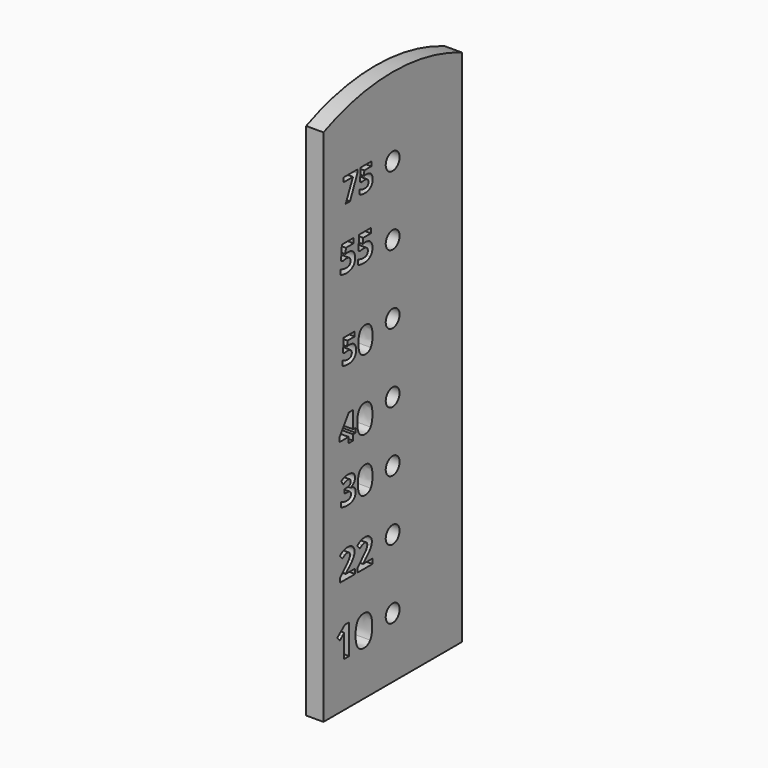
from build123d import *

# Parameters (mm, degrees)
F0_R     = 12.7
F1_DEPTH = 25.4


with BuildPart() as f1:
    # F0 (on Right) → F1 (new body)
    with BuildSketch(Plane.YZ):
        with BuildLine():
            Line((-63.9527306103, -528.3341474914), (-63.9527306103, 233.6658525086))
            ThreePointArc((-63.9527306103, 233.6658525086), (-190.95273061, 260.085778301), (-317.9527306097, 233.6658525089))
            Line((-317.9527306097, 233.6658525089), (-317.9527306097, -528.3341474914))
            Line((-317.9527306103, -528.3341474914), (-63.9527306103, -528.3341474914))
        make_face()
        with BuildLine():
            Line((-270.8871777027, -418.6918881411), (-270.8871777027, -462.4520242214))
            Line((-270.8871777027, -462.4520242214), (-280.139156572, -462.4520242214))
            Line((-280.139156572, -462.4520242214), (-280.139156572, -437.1288025545))
            Line((-280.139156572, -437.1288025545), (-280.0433803932, -432.9721163958))
            Line((-280.0433803932, -432.9721163958), (-279.899716125, -428.4227479042))
            add(Edge.make_bspline(
                [(-279.899716125, -428.4227479042), (-282.1983444155, -430.7213761947), (-283.098640496, -431.4396975355)],
                knots=[0, 0, 0, 1, 1, 1], degree=2))
            Line((-283.098640496, -431.4396975355), (-288.1268898814, -435.4814522796))
            Line((-288.1268898814, -435.4814522796), (-292.5900598121, -429.916856293))
            Line((-292.5900598121, -429.916856293), (-278.4918062971, -418.6918881411))
            Line((-278.4918062971, -418.6918881411), (-270.8871777027, -418.6918881411))
        make_face(mode=Mode.SUBTRACT)
        with BuildLine():
            Line((-259.8650928703, -353.7320835943), (-259.8650928703, -360.810816288))
            Line((-259.8650928703, -360.810816288), (-287.6750218048, -360.810816288))
            Line((-287.6750218048, -360.810816288), (-287.6750218048, -354.9597604821))
            Line((-287.6750218048, -354.9597604821), (-277.6881750647, -344.8684306026))
            add(Edge.make_bspline(
                [(-277.6881750647, -344.8684306026), (-273.2476416406, -340.3234140391), (-271.8893608285, -338.5689679902)],
                knots=[0, 0, 0, 1, 1, 1], degree=2))
            add(Edge.make_bspline(
                [(-271.8893608285, -338.5689679902), (-270.5310800165, -336.8145219413), (-269.930301965, -335.3169302767)],
                knots=[0, 0, 0, 1, 1, 1], degree=2))
            add(Edge.make_bspline(
                [(-269.930301965, -335.3169302767), (-269.3295239135, -333.8193386121), (-269.3295239135, -332.2172638081)],
                knots=[0, 0, 0, 1, 1, 1], degree=2))
            add(Edge.make_bspline(
                [(-269.3295239135, -332.2172638081), (-269.3295239135, -329.8228585304), (-270.6529770124, -328.6517766764)],
                knots=[0, 0, 0, 1, 1, 1], degree=2))
            add(Edge.make_bspline(
                [(-270.6529770124, -328.6517766764), (-271.9764301114, -327.4806948223), (-274.1792829668, -327.4806948223)],
                knots=[0, 0, 0, 1, 1, 1], degree=2))
            add(Edge.make_bspline(
                [(-274.1792829668, -327.4806948223), (-276.4866189617, -327.4806948223), (-278.6633510324, -328.5429400728)],
                knots=[0, 0, 0, 1, 1, 1], degree=2))
            add(Edge.make_bspline(
                [(-278.6633510324, -328.5429400728), (-280.840083103, -329.6051853233), (-283.2083675959, -331.5642441869)],
                knots=[0, 0, 0, 1, 1, 1], degree=2))
            Line((-283.2083675959, -331.5642441869), (-287.7795049442, -326.1485347951))
            add(Edge.make_bspline(
                [(-287.7795049442, -326.1485347951), (-284.845270113, -323.6409394497), (-282.9123320343, -322.6091684483)],
                knots=[0, 0, 0, 1, 1, 1], degree=2))
            add(Edge.make_bspline(
                [(-282.9123320343, -322.6091684483), (-280.9793939555, -321.5773974468), (-278.6938252814, -321.0201540367)],
                knots=[0, 0, 0, 1, 1, 1], degree=2))
            add(Edge.make_bspline(
                [(-278.6938252814, -321.0201540367), (-276.4082566072, -320.4629106266), (-273.5785049153, -320.4629106266)],
                knots=[0, 0, 0, 1, 1, 1], degree=2))
            add(Edge.make_bspline(
                [(-273.5785049153, -320.4629106266), (-269.8519396104, -320.4629106266), (-266.9960671337, -321.8211914387)],
                knots=[0, 0, 0, 1, 1, 1], degree=2))
            add(Edge.make_bspline(
                [(-266.9960671337, -321.8211914387), (-264.1401946571, -323.1794722508), (-262.5598871738, -325.6304725623)],
                knots=[0, 0, 0, 1, 1, 1], degree=2))
            add(Edge.make_bspline(
                [(-262.5598871738, -325.6304725623), (-260.9795796905, -328.0814728738), (-260.9795796905, -331.2333809121)],
                knots=[0, 0, 0, 1, 1, 1], degree=2))
            add(Edge.make_bspline(
                [(-260.9795796905, -331.2333809121), (-260.9795796905, -333.9847702494), (-261.9460487298, -336.3922359195)],
                knots=[0, 0, 0, 1, 1, 1], degree=2))
            add(Edge.make_bspline(
                [(-261.9460487298, -336.3922359195), (-262.9125177692, -338.7997015897), (-264.941232059, -341.3290642558)],
                knots=[0, 0, 0, 1, 1, 1], degree=2))
            add(Edge.make_bspline(
                [(-264.941232059, -341.3290642558), (-266.9699463489, -343.8584269218), (-272.0809132507, -348.5427543379)],
                knots=[0, 0, 0, 1, 1, 1], degree=2))
            Line((-272.0809132507, -348.5427543379), (-277.2005870809, -353.3576856781))
            Line((-277.2005870809, -353.3576856781), (-277.2005870809, -353.7320835943))
            Line((-277.2005870809, -353.7320835943), (-259.8650928703, -353.7320835943))
        make_face(mode=Mode.SUBTRACT)
        with BuildLine():
            add(Edge.make_bspline(
                [(-232.2941664671, -423.7488703802), (-228.4200200358, -429.4954411065), (-228.4200200358, -440.5767449902)],
                knots=[0, 0, 0, 1, 1, 1], degree=2))
            add(Edge.make_bspline(
                [(-228.4200200358, -440.5767449902), (-228.4200200358, -452.0315759712), (-232.1744462436, -457.5434950594)],
                knots=[0, 0, 0, 1, 1, 1], degree=2))
            add(Edge.make_bspline(
                [(-232.1744462436, -457.5434950594), (-235.9288724514, -463.0554141477), (-243.7442086391, -463.0554141477)],
                knots=[0, 0, 0, 1, 1, 1], degree=2))
            add(Edge.make_bspline(
                [(-243.7442086391, -463.0554141477), (-251.3201043799, -463.0554141477), (-255.1655179575, -457.3663091287)],
                knots=[0, 0, 0, 1, 1, 1], degree=2))
            add(Edge.make_bspline(
                [(-255.1655179575, -457.3663091287), (-259.0109315352, -451.6772041097), (-259.0109315352, -440.5767449902)],
                knots=[0, 0, 0, 1, 1, 1], degree=2))
            add(Edge.make_bspline(
                [(-259.0109315352, -440.5767449902), (-259.0109315352, -428.987827359), (-255.2660829452, -423.4950635065)],
                knots=[0, 0, 0, 1, 1, 1], degree=2))
            add(Edge.make_bspline(
                [(-255.2660829452, -423.4950635065), (-251.5212343553, -418.002299654), (-243.7442086391, -418.002299654)],
                knots=[0, 0, 0, 1, 1, 1], degree=2))
            add(Edge.make_bspline(
                [(-243.7442086391, -418.002299654), (-236.1683128984, -418.002299654), (-232.2941664671, -423.7488703802)],
                knots=[0, 0, 0, 1, 1, 1], degree=2))
        make_face(mode=Mode.SUBTRACT)
        with Locations((-190.9527306103, -439.4341474914)):
            Circle(F0_R, mode=Mode.SUBTRACT)
        with BuildLine():
            Line((-228.0586838541, -353.7320835943), (-228.0586838541, -360.810816288))
            Line((-228.0586838541, -360.810816288), (-255.8686127886, -360.810816288))
            Line((-255.8686127886, -360.810816288), (-255.8686127886, -354.9597604821))
            Line((-255.8686127886, -354.9597604821), (-245.8817660485, -344.8684306026))
            add(Edge.make_bspline(
                [(-245.8817660485, -344.8684306026), (-241.4412326244, -340.3234140391), (-240.0829518123, -338.5689679902)],
                knots=[0, 0, 0, 1, 1, 1], degree=2))
            add(Edge.make_bspline(
                [(-240.0829518123, -338.5689679902), (-238.7246710003, -336.8145219413), (-238.1238929488, -335.3169302767)],
                knots=[0, 0, 0, 1, 1, 1], degree=2))
            add(Edge.make_bspline(
                [(-238.1238929488, -335.3169302767), (-237.5231148973, -333.8193386121), (-237.5231148973, -332.2172638081)],
                knots=[0, 0, 0, 1, 1, 1], degree=2))
            add(Edge.make_bspline(
                [(-237.5231148973, -332.2172638081), (-237.5231148973, -329.8228585304), (-238.8465679962, -328.6517766764)],
                knots=[0, 0, 0, 1, 1, 1], degree=2))
            add(Edge.make_bspline(
                [(-238.8465679962, -328.6517766764), (-240.1700210952, -327.4806948223), (-242.3728739506, -327.4806948223)],
                knots=[0, 0, 0, 1, 1, 1], degree=2))
            add(Edge.make_bspline(
                [(-242.3728739506, -327.4806948223), (-244.6802099455, -327.4806948223), (-246.8569420162, -328.5429400728)],
                knots=[0, 0, 0, 1, 1, 1], degree=2))
            add(Edge.make_bspline(
                [(-246.8569420162, -328.5429400728), (-249.0336740868, -329.6051853233), (-251.4019585797, -331.5642441869)],
                knots=[0, 0, 0, 1, 1, 1], degree=2))
            Line((-251.4019585797, -331.5642441869), (-255.973095928, -326.1485347951))
            add(Edge.make_bspline(
                [(-255.973095928, -326.1485347951), (-253.0388610968, -323.6409394497), (-251.1059230181, -322.6091684483)],
                knots=[0, 0, 0, 1, 1, 1], degree=2))
            add(Edge.make_bspline(
                [(-251.1059230181, -322.6091684483), (-249.1729849393, -321.5773974468), (-246.8874162652, -321.0201540367)],
                knots=[0, 0, 0, 1, 1, 1], degree=2))
            add(Edge.make_bspline(
                [(-246.8874162652, -321.0201540367), (-244.601847591, -320.4629106266), (-241.7720958991, -320.4629106266)],
                knots=[0, 0, 0, 1, 1, 1], degree=2))
            add(Edge.make_bspline(
                [(-241.7720958991, -320.4629106266), (-238.0455305942, -320.4629106266), (-235.1896581175, -321.8211914387)],
                knots=[0, 0, 0, 1, 1, 1], degree=2))
            add(Edge.make_bspline(
                [(-235.1896581175, -321.8211914387), (-232.3337856409, -323.1794722508), (-230.7534781576, -325.6304725623)],
                knots=[0, 0, 0, 1, 1, 1], degree=2))
            add(Edge.make_bspline(
                [(-230.7534781576, -325.6304725623), (-229.1731706743, -328.0814728738), (-229.1731706743, -331.2333809121)],
                knots=[0, 0, 0, 1, 1, 1], degree=2))
            add(Edge.make_bspline(
                [(-229.1731706743, -331.2333809121), (-229.1731706743, -333.9847702494), (-230.1396397136, -336.3922359195)],
                knots=[0, 0, 0, 1, 1, 1], degree=2))
            add(Edge.make_bspline(
                [(-230.1396397136, -336.3922359195), (-231.106108753, -338.7997015897), (-233.1348230428, -341.3290642558)],
                knots=[0, 0, 0, 1, 1, 1], degree=2))
            add(Edge.make_bspline(
                [(-233.1348230428, -341.3290642558), (-235.1635373327, -343.8584269218), (-240.2745042345, -348.5427543379)],
                knots=[0, 0, 0, 1, 1, 1], degree=2))
            Line((-240.2745042345, -348.5427543379), (-245.3941780647, -353.3576856781))
            Line((-245.3941780647, -353.3576856781), (-245.3941780647, -353.7320835943))
            Line((-245.3941780647, -353.7320835943), (-228.0586838541, -353.7320835943))
        make_face(mode=Mode.SUBTRACT)
        with Locations((-190.9527306103, -337.8341474914)):
            Circle(F0_R, mode=Mode.SUBTRACT)
        with BuildLine():
            add(Edge.make_bspline(
                [(-263.4314556878, -229.27335457), (-259.9721926381, -231.6931553651), (-259.9721926381, -236.0025049549)],
                knots=[0, 0, 0, 1, 1, 1], degree=2))
            add(Edge.make_bspline(
                [(-259.9721926381, -236.0025049549), (-259.9721926381, -239.6048518777), (-262.1563258775, -242.129861403)],
                knots=[0, 0, 0, 1, 1, 1], degree=2))
            add(Edge.make_bspline(
                [(-262.1563258775, -242.129861403), (-264.3404591169, -244.6548709284), (-268.2878906748, -245.6059578496)],
                knots=[0, 0, 0, 1, 1, 1], degree=2))
            Line((-268.2878906748, -245.6059578496), (-268.2878906748, -245.7574584211))
            add(Edge.make_bspline(
                [(-268.2878906748, -245.7574584211), (-263.6250397514, -246.3382106119), (-261.2346974007, -248.5896774387)],
                knots=[0, 0, 0, 1, 1, 1], degree=2))
            add(Edge.make_bspline(
                [(-261.2346974007, -248.5896774387), (-258.8443550501, -250.8411442654), (-258.8443550501, -254.6539086486)],
                knots=[0, 0, 0, 1, 1, 1], degree=2))
            add(Edge.make_bspline(
                [(-258.8443550501, -254.6539086486), (-258.8443550501, -260.2005129059), (-262.8675368938, -263.2936495744)],
                knots=[0, 0, 0, 1, 1, 1], degree=2))
            add(Edge.make_bspline(
                [(-262.8675368938, -263.2936495744), (-266.8907187375, -266.3867862429), (-274.356330234, -266.3867862429)],
                knots=[0, 0, 0, 1, 1, 1], degree=2))
            add(Edge.make_bspline(
                [(-274.356330234, -266.3867862429), (-280.6183538568, -266.3867862429), (-285.457955447, -264.3078617338)],
                knots=[0, 0, 0, 1, 1, 1], degree=2))
            Line((-285.457955447, -264.3078617338), (-285.457955447, -257.3893356344))
            add(Edge.make_bspline(
                [(-285.457955447, -257.3893356344), (-283.2275303663, -258.5171732224), (-280.542603571, -259.2283842387)],
                knots=[0, 0, 0, 1, 1, 1], degree=2))
            add(Edge.make_bspline(
                [(-280.542603571, -259.2283842387), (-277.8576767758, -259.939595255), (-275.2316668694, -259.939595255)],
                knots=[0, 0, 0, 1, 1, 1], degree=2))
            add(Edge.make_bspline(
                [(-275.2316668694, -259.939595255), (-271.2000683273, -259.939595255), (-269.2810610881, -258.5718817621)],
                knots=[0, 0, 0, 1, 1, 1], degree=2))
            add(Edge.make_bspline(
                [(-269.2810610881, -258.5718817621), (-267.3620538489, -257.2041682692), (-267.3620538489, -254.1741568388)],
                knots=[0, 0, 0, 1, 1, 1], degree=2))
            add(Edge.make_bspline(
                [(-267.3620538489, -254.1741568388), (-267.3620538489, -251.4723966467), (-269.5714371835, -250.3403507095)],
                knots=[0, 0, 0, 1, 1, 1], degree=2))
            add(Edge.make_bspline(
                [(-269.5714371835, -250.3403507095), (-271.7808205182, -249.2083047724), (-276.6204221084, -249.2083047724)],
                knots=[0, 0, 0, 1, 1, 1], degree=2))
            Line((-276.6204221084, -249.2083047724), (-279.5410164593, -249.2083047724))
            Line((-279.5410164593, -249.2083047724), (-279.5410164593, -242.9715312448))
            Line((-279.5410164593, -242.9715312448), (-276.5699219179, -242.9715312448))
            add(Edge.make_bspline(
                [(-276.5699219179, -242.9715312448), (-272.100655058, -242.9715312448), (-270.0343555965, -241.8016101648)],
                knots=[0, 0, 0, 1, 1, 1], degree=2))
            add(Edge.make_bspline(
                [(-270.0343555965, -241.8016101648), (-267.9680561349, -240.6316890847), (-267.9680561349, -237.7952617179)],
                knots=[0, 0, 0, 1, 1, 1], degree=2))
            add(Edge.make_bspline(
                [(-267.9680561349, -237.7952617179), (-267.9680561349, -233.4269952391), (-273.4389101065, -233.4269952391)],
                knots=[0, 0, 0, 1, 1, 1], degree=2))
            add(Edge.make_bspline(
                [(-273.4389101065, -233.4269952391), (-275.3326672504, -233.4269952391), (-277.2937579818, -234.0582476204)],
                knots=[0, 0, 0, 1, 1, 1], degree=2))
            add(Edge.make_bspline(
                [(-277.2937579818, -234.0582476204), (-279.2548487131, -234.6895000018), (-281.6451910637, -236.2381725106)],
                knots=[0, 0, 0, 1, 1, 1], degree=2))
            Line((-281.6451910637, -236.2381725106), (-285.4074552565, -230.6410680628))
            add(Edge.make_bspline(
                [(-285.4074552565, -230.6410680628), (-280.1470187454, -226.8535537749), (-272.8581579156, -226.8535537749)],
                knots=[0, 0, 0, 1, 1, 1], degree=2))
            add(Edge.make_bspline(
                [(-272.8581579156, -226.8535537749), (-266.8907187375, -226.8535537749), (-263.4314556878, -229.27335457)],
                knots=[0, 0, 0, 1, 1, 1], degree=2))
        make_face(mode=Mode.SUBTRACT)
        Polygon((-258.7506187912, -172.1751996245), (-258.7506187912, -178.7053982617), (-263.5394311251, -178.7053982617), (-263.5394311251, -186.9508624077), (-271.7587744765, -186.9508624077), (-271.7587744765, -178.7053982617), (-288.7372909334, -178.7053982617), (-288.7372909334, -172.8543402828), (-271.2886001747, -147.1688923096), (-263.5394311251, -147.1688923096), (-263.5394311251, -172.1751996245), align=None, mode=Mode.SUBTRACT)
        with BuildLine():
            add(Edge.make_bspline(
                [(-231.3427929702, -231.8446559366), (-227.9382384602, -236.8946749872), (-227.9382384602, -246.6327950565)],
                knots=[0, 0, 0, 1, 1, 1], degree=2))
            add(Edge.make_bspline(
                [(-227.9382384602, -246.6327950565), (-227.9382384602, -256.6991663641), (-231.23758424, -261.5429763035)],
                knots=[0, 0, 0, 1, 1, 1], degree=2))
            add(Edge.make_bspline(
                [(-231.23758424, -261.5429763035), (-234.5369300197, -266.3867862429), (-241.4049559286, -266.3867862429)],
                knots=[0, 0, 0, 1, 1, 1], degree=2))
            add(Edge.make_bspline(
                [(-241.4049559286, -266.3867862429), (-248.062564377, -266.3867862429), (-251.4418687917, -261.3872673828)],
                knots=[0, 0, 0, 1, 1, 1], degree=2))
            add(Edge.make_bspline(
                [(-251.4418687917, -261.3872673828), (-254.8211732064, -256.3877485227), (-254.8211732064, -246.6327950565)],
                knots=[0, 0, 0, 1, 1, 1], degree=2))
            add(Edge.make_bspline(
                [(-254.8211732064, -246.6327950565), (-254.8211732064, -236.4485899711), (-251.5302441251, -231.6216134285)],
                knots=[0, 0, 0, 1, 1, 1], degree=2))
            add(Edge.make_bspline(
                [(-251.5302441251, -231.6216134285), (-248.2393150438, -226.7946368859), (-241.4049559286, -226.7946368859)],
                knots=[0, 0, 0, 1, 1, 1], degree=2))
            add(Edge.make_bspline(
                [(-241.4049559286, -226.7946368859), (-234.7473474802, -226.7946368859), (-231.3427929702, -231.8446559366)],
                knots=[0, 0, 0, 1, 1, 1], degree=2))
        make_face(mode=Mode.SUBTRACT)
        with Locations((-190.9527306103, -248.9341474914)):
            Circle(F0_R, mode=Mode.SUBTRACT)
        with BuildLine():
            add(Edge.make_bspline(
                [(-231.5806389945, -151.7661521502), (-228.0586851961, -156.99031106), (-228.0586851961, -167.0642308244)],
                knots=[0, 0, 0, 1, 1, 1], degree=2))
            add(Edge.make_bspline(
                [(-228.0586851961, -167.0642308244), (-228.0586851961, -177.4777209179), (-231.4718023505, -182.4885600056)],
                knots=[0, 0, 0, 1, 1, 1], degree=2))
            add(Edge.make_bspline(
                [(-231.4718023505, -182.4885600056), (-234.8849195049, -187.4993990932), (-241.9897756222, -187.4993990932)],
                knots=[0, 0, 0, 1, 1, 1], degree=2))
            add(Edge.make_bspline(
                [(-241.9897756222, -187.4993990932), (-248.8769584516, -187.4993990932), (-252.3727914555, -182.3274817725)],
                knots=[0, 0, 0, 1, 1, 1], degree=2))
            add(Edge.make_bspline(
                [(-252.3727914555, -182.3274817725), (-255.8686244593, -177.1555644518), (-255.8686244593, -167.0642308244)],
                knots=[0, 0, 0, 1, 1, 1], degree=2))
            add(Edge.make_bspline(
                [(-255.8686244593, -167.0642308244), (-255.8686244593, -156.5288436897), (-252.4642142364, -151.535418465)],
                knots=[0, 0, 0, 1, 1, 1], degree=2))
            add(Edge.make_bspline(
                [(-252.4642142364, -151.535418465), (-249.0598040135, -146.5419932404), (-241.9897756222, -146.5419932404)],
                knots=[0, 0, 0, 1, 1, 1], degree=2))
            add(Edge.make_bspline(
                [(-241.9897756222, -146.5419932404), (-235.1025927928, -146.5419932404), (-231.5806389945, -151.7661521502)],
                knots=[0, 0, 0, 1, 1, 1], degree=2))
        make_face(mode=Mode.SUBTRACT)
        with Locations((-190.9527306103, -160.0341474914)):
            Circle(F0_R, mode=Mode.SUBTRACT)
        with BuildLine():
            add(Edge.make_bspline(
                [(-273.6156425922, -60.6086655906), (-272.063487253, -60.2511010099), (-269.7799498168, -60.2511010099)],
                knots=[0, 0, 0, 1, 1, 1], degree=2))
            add(Edge.make_bspline(
                [(-269.7799498168, -60.2511010099), (-264.40022817, -60.2511010099), (-261.2105895803, -63.2741470108)],
                knots=[0, 0, 0, 1, 1, 1], degree=2))
            add(Edge.make_bspline(
                [(-261.2105895803, -63.2741470108), (-258.0209509906, -66.2971930118), (-258.0209509906, -71.5550176424)],
                knots=[0, 0, 0, 1, 1, 1], degree=2))
            add(Edge.make_bspline(
                [(-258.0209509906, -71.5550176424), (-258.0209509906, -77.7717654669), (-261.856643766, -81.1279966454)],
                knots=[0, 0, 0, 1, 1, 1], degree=2))
            add(Edge.make_bspline(
                [(-261.856643766, -81.1279966454), (-265.6923365414, -84.4842278239), (-272.827375221, -84.4842278239)],
                knots=[0, 0, 0, 1, 1, 1], degree=2))
            add(Edge.make_bspline(
                [(-272.827375221, -84.4842278239), (-279.02787011, -84.4842278239), (-282.8310570144, -82.476990291)],
                knots=[0, 0, 0, 1, 1, 1], degree=2))
            Line((-282.8310570144, -82.476990291), (-282.8310570144, -75.6913897243))
            add(Edge.make_bspline(
                [(-282.8310570144, -75.6913897243), (-280.8319459493, -76.7559569989), (-278.1624012953, -77.4304538217)],
                knots=[0, 0, 0, 1, 1, 1], degree=2))
            add(Edge.make_bspline(
                [(-278.1624012953, -77.4304538217), (-275.4928566412, -78.1049506445), (-273.1118015921, -78.1049506445)],
                knots=[0, 0, 0, 1, 1, 1], degree=2))
            add(Edge.make_bspline(
                [(-273.1118015921, -78.1049506445), (-265.9198776382, -78.1049506445), (-265.9198776382, -72.2132615297)],
                knots=[0, 0, 0, 1, 1, 1], degree=2))
            add(Edge.make_bspline(
                [(-265.9198776382, -72.2132615297), (-265.9198776382, -66.5978723183), (-273.3637220921, -66.5978723183)],
                knots=[0, 0, 0, 1, 1, 1], degree=2))
            add(Edge.make_bspline(
                [(-273.3637220921, -66.5978723183), (-274.70458927, -66.5978723183), (-276.3298828189, -66.8660457539)],
                knots=[0, 0, 0, 1, 1, 1], degree=2))
            add(Edge.make_bspline(
                [(-276.3298828189, -66.8660457539), (-277.9551763678, -67.1342191894), (-278.9709848358, -67.4430249637)],
                knots=[0, 0, 0, 1, 1, 1], degree=2))
            Line((-278.9709848358, -67.4430249637), (-282.0996749174, -65.7608461406))
            Line((-282.0996749174, -65.7608461406), (-280.7019224654, -46.8424292315))
            Line((-280.7019224654, -46.8424292315), (-260.5645353946, -46.8424292315))
            Line((-260.5645353946, -46.8424292315), (-260.5645353946, -53.4980063142))
            Line((-260.5645353946, -53.4980063142), (-273.8188042858, -53.4980063142))
            Line((-273.8188042858, -53.4980063142), (-274.5014275764, -60.787447881))
            Line((-274.5014275764, -60.787447881), (-273.6156425922, -60.6086655906))
        make_face(mode=Mode.SUBTRACT)
        with BuildLine():
            add(Edge.make_bspline(
                [(-276.5736979248, 60.0873679165), (-274.910674314, 60.4704728321), (-272.4640270123, 60.4704728321)],
                knots=[0, 0, 0, 1, 1, 1], degree=2))
            add(Edge.make_bspline(
                [(-272.4640270123, 60.4704728321), (-266.7000394188, 60.4704728321), (-263.2825694333, 57.2314949095)],
                knots=[0, 0, 0, 1, 1, 1], degree=2))
            add(Edge.make_bspline(
                [(-263.2825694333, 57.2314949095), (-259.8650994478, 53.9925169869), (-259.8650994478, 48.359133342)],
                knots=[0, 0, 0, 1, 1, 1], degree=2))
            add(Edge.make_bspline(
                [(-259.8650994478, 48.359133342), (-259.8650994478, 41.6983319689), (-263.9747703603, 38.1023699204)],
                knots=[0, 0, 0, 1, 1, 1], degree=2))
            add(Edge.make_bspline(
                [(-263.9747703603, 38.1023699204), (-268.0844412729, 34.506407872), (-275.7291257246, 34.506407872)],
                knots=[0, 0, 0, 1, 1, 1], degree=2))
            add(Edge.make_bspline(
                [(-275.7291257246, 34.506407872), (-282.3725132378, 34.506407872), (-286.4473564308, 36.6570195571)],
                knots=[0, 0, 0, 1, 1, 1], degree=2))
            Line((-286.4473564308, 36.6570195571), (-286.4473564308, 43.9273060232))
            add(Edge.make_bspline(
                [(-286.4473564308, 43.9273060232), (-284.3054516755, 42.7866982063), (-281.4452252035, 42.0640230247)],
                knots=[0, 0, 0, 1, 1, 1], degree=2))
            add(Edge.make_bspline(
                [(-281.4452252035, 42.0640230247), (-278.5849987316, 41.341347843), (-276.033868271, 41.341347843)],
                knots=[0, 0, 0, 1, 1, 1], degree=2))
            add(Edge.make_bspline(
                [(-276.033868271, 41.341347843), (-268.32823531, 41.341347843), (-268.32823531, 47.6538720201)],
                knots=[0, 0, 0, 1, 1, 1], degree=2))
            add(Edge.make_bspline(
                [(-268.32823531, 47.6538720201), (-268.32823531, 53.6703605806), (-276.3037830979, 53.6703605806)],
                knots=[0, 0, 0, 1, 1, 1], degree=2))
            add(Edge.make_bspline(
                [(-276.3037830979, 53.6703605806), (-277.7404265313, 53.6703605806), (-279.4818125112, 53.3830318939)],
                knots=[0, 0, 0, 1, 1, 1], degree=2))
            add(Edge.make_bspline(
                [(-279.4818125112, 53.3830318939), (-281.2231984911, 53.0957032073), (-282.3115647285, 52.7648398711)],
                knots=[0, 0, 0, 1, 1, 1], degree=2))
            Line((-282.3115647285, 52.7648398711), (-285.6637327398, 54.5671743603))
            Line((-285.6637327398, 54.5671743603), (-284.1661407971, 74.8369071662))
            Line((-284.1661407971, 74.8369071662), (-262.5903685063, 74.8369071662))
            Line((-262.5903685063, 74.8369071662), (-262.5903685063, 67.7059315785))
            Line((-262.5903685063, 67.7059315785), (-276.7913711723, 67.7059315785))
            Line((-276.7913711723, 67.7059315785), (-277.5227532838, 59.8958154587))
            Line((-277.5227532838, 59.8958154587), (-276.5736979248, 60.0873679165))
        make_face(mode=Mode.SUBTRACT)
        with BuildLine():
            add(Edge.make_bspline(
                [(-231.1426589258, -51.1332042006), (-227.8555027232, -56.0090848473), (-227.8555027232, -65.4114080276)],
                knots=[0, 0, 0, 1, 1, 1], degree=2))
            add(Edge.make_bspline(
                [(-227.8555027232, -65.4114080276), (-227.8555027232, -75.13066345), (-231.041078079, -79.8074456369)],
                knots=[0, 0, 0, 1, 1, 1], degree=2))
            add(Edge.make_bspline(
                [(-231.041078079, -79.8074456369), (-234.2266534348, -84.4842278239), (-240.8578511143, -84.4842278239)],
                knots=[0, 0, 0, 1, 1, 1], degree=2))
            add(Edge.make_bspline(
                [(-240.8578511143, -84.4842278239), (-247.2858871002, -84.4842278239), (-250.5486638996, -79.6571059836)],
                knots=[0, 0, 0, 1, 1, 1], degree=2))
            add(Edge.make_bspline(
                [(-250.5486638996, -79.6571059836), (-253.811440699, -74.8299841434), (-253.811440699, -65.4114080276)],
                knots=[0, 0, 0, 1, 1, 1], degree=2))
            add(Edge.make_bspline(
                [(-253.811440699, -65.4114080276), (-253.811440699, -55.5783820568), (-250.6339918109, -50.9178528054)],
                knots=[0, 0, 0, 1, 1, 1], degree=2))
            add(Edge.make_bspline(
                [(-250.6339918109, -50.9178528054), (-247.4565429228, -46.2573235539), (-240.8578511143, -46.2573235539)],
                knots=[0, 0, 0, 1, 1, 1], degree=2))
            add(Edge.make_bspline(
                [(-240.8578511143, -46.2573235539), (-234.4298151285, -46.2573235539), (-231.1426589258, -51.1332042006)],
                knots=[0, 0, 0, 1, 1, 1], degree=2))
        make_face(mode=Mode.SUBTRACT)
        with Locations((-190.9527306103, -58.4341474914)):
            Circle(F0_R, mode=Mode.SUBTRACT)
        with BuildLine():
            add(Edge.make_bspline(
                [(-244.7672830021, 60.0873679165), (-243.1042593914, 60.4704728321), (-240.6576120896, 60.4704728321)],
                knots=[0, 0, 0, 1, 1, 1], degree=2))
            add(Edge.make_bspline(
                [(-240.6576120896, 60.4704728321), (-234.8936244962, 60.4704728321), (-231.4761545106, 57.2314949095)],
                knots=[0, 0, 0, 1, 1, 1], degree=2))
            add(Edge.make_bspline(
                [(-231.4761545106, 57.2314949095), (-228.0586845251, 53.9925169869), (-228.0586845251, 48.359133342)],
                knots=[0, 0, 0, 1, 1, 1], degree=2))
            add(Edge.make_bspline(
                [(-228.0586845251, 48.359133342), (-228.0586845251, 41.6983319689), (-232.1683554377, 38.1023699204)],
                knots=[0, 0, 0, 1, 1, 1], degree=2))
            add(Edge.make_bspline(
                [(-232.1683554377, 38.1023699204), (-236.2780263502, 34.506407872), (-243.9227108019, 34.506407872)],
                knots=[0, 0, 0, 1, 1, 1], degree=2))
            add(Edge.make_bspline(
                [(-243.9227108019, 34.506407872), (-250.5660983152, 34.506407872), (-254.6409415081, 36.6570195571)],
                knots=[0, 0, 0, 1, 1, 1], degree=2))
            Line((-254.6409415081, 36.6570195571), (-254.6409415081, 43.9273060232))
            add(Edge.make_bspline(
                [(-254.6409415081, 43.9273060232), (-252.4990367529, 42.7866982063), (-249.6388102809, 42.0640230247)],
                knots=[0, 0, 0, 1, 1, 1], degree=2))
            add(Edge.make_bspline(
                [(-249.6388102809, 42.0640230247), (-246.7785838089, 41.341347843), (-244.2274533484, 41.341347843)],
                knots=[0, 0, 0, 1, 1, 1], degree=2))
            add(Edge.make_bspline(
                [(-244.2274533484, 41.341347843), (-236.5218203874, 41.341347843), (-236.5218203874, 47.6538720201)],
                knots=[0, 0, 0, 1, 1, 1], degree=2))
            add(Edge.make_bspline(
                [(-236.5218203874, 47.6538720201), (-236.5218203874, 53.6703605806), (-244.4973681753, 53.6703605806)],
                knots=[0, 0, 0, 1, 1, 1], degree=2))
            add(Edge.make_bspline(
                [(-244.4973681753, 53.6703605806), (-245.9340116087, 53.6703605806), (-247.6753975886, 53.3830318939)],
                knots=[0, 0, 0, 1, 1, 1], degree=2))
            add(Edge.make_bspline(
                [(-247.6753975886, 53.3830318939), (-249.4167835684, 53.0957032073), (-250.5051498059, 52.7648398711)],
                knots=[0, 0, 0, 1, 1, 1], degree=2))
            Line((-250.5051498059, 52.7648398711), (-253.8573178172, 54.5671743603))
            Line((-253.8573178172, 54.5671743603), (-252.3597258745, 74.8369071662))
            Line((-252.3597258745, 74.8369071662), (-230.7839535836, 74.8369071662))
            Line((-230.7839535836, 74.8369071662), (-230.7839535836, 67.7059315785))
            Line((-230.7839535836, 67.7059315785), (-244.9849562496, 67.7059315785))
            Line((-244.9849562496, 67.7059315785), (-245.7163383612, 59.8958154587))
            Line((-245.7163383612, 59.8958154587), (-244.7672830021, 60.0873679165))
        make_face(mode=Mode.SUBTRACT)
        with Locations((-190.9527306103, 43.1658525086)):
            Circle(F0_R, mode=Mode.SUBTRACT)
        Polygon((-269.2058855318, 124.6597021818), (-277.1439920471, 124.6597021818), (-263.6970120075, 154.0455851355), (-281.352050486, 154.0455851355), (-281.352050486, 160.4164445598), (-255.6648706668, 160.4164445598), (-255.6648706668, 155.6598496391), align=None, mode=Mode.SUBTRACT)
        with BuildLine():
            add(Edge.make_bspline(
                [(-242.7350821672, 147.1888791129), (-241.2383611954, 147.5336734729), (-239.0363790328, 147.5336734729)],
                knots=[0, 0, 0, 1, 1, 1], degree=2))
            add(Edge.make_bspline(
                [(-239.0363790328, 147.5336734729), (-233.848791162, 147.5336734729), (-230.7730687462, 144.6185938839)],
                knots=[0, 0, 0, 1, 1, 1], degree=2))
            add(Edge.make_bspline(
                [(-230.7730687462, 144.6185938839), (-227.6973463304, 141.7035142949), (-227.6973463304, 136.633469956)],
                knots=[0, 0, 0, 1, 1, 1], degree=2))
            add(Edge.make_bspline(
                [(-227.6973463304, 136.633469956), (-227.6973463304, 130.6387498335), (-231.3960494648, 127.4023845908)],
                knots=[0, 0, 0, 1, 1, 1], degree=2))
            add(Edge.make_bspline(
                [(-231.3960494648, 127.4023845908), (-235.0947525993, 124.1660193482), (-241.9749673281, 124.1660193482)],
                knots=[0, 0, 0, 1, 1, 1], degree=2))
            add(Edge.make_bspline(
                [(-241.9749673281, 124.1660193482), (-247.9540149798, 124.1660193482), (-251.6213731724, 126.1015695054)],
                knots=[0, 0, 0, 1, 1, 1], degree=2))
            Line((-251.6213731724, 126.1015695054), (-251.6213731724, 132.6448261098))
            add(Edge.make_bspline(
                [(-251.6213731724, 132.6448261098), (-249.6936592506, 131.6182792652), (-247.1194559039, 130.9678717225)],
                knots=[0, 0, 0, 1, 1, 1], degree=2))
            add(Edge.make_bspline(
                [(-247.1194559039, 130.9678717225), (-244.5452525571, 130.3174641798), (-242.249235569, 130.3174641798)],
                knots=[0, 0, 0, 1, 1, 1], degree=2))
            add(Edge.make_bspline(
                [(-242.249235569, 130.3174641798), (-235.314167192, 130.3174641798), (-235.314167192, 135.9987348842)],
                knots=[0, 0, 0, 1, 1, 1], degree=2))
            add(Edge.make_bspline(
                [(-235.314167192, 135.9987348842), (-235.314167192, 141.4135735831), (-242.4921588681, 141.4135735831)],
                knots=[0, 0, 0, 1, 1, 1], degree=2))
            add(Edge.make_bspline(
                [(-242.4921588681, 141.4135735831), (-243.7851377181, 141.4135735831), (-245.3523848089, 141.1549778131)],
                knots=[0, 0, 0, 1, 1, 1], degree=2))
            add(Edge.make_bspline(
                [(-245.3523848089, 141.1549778131), (-246.9196318998, 140.8963820431), (-247.8991613316, 140.5986050959)],
                knots=[0, 0, 0, 1, 1, 1], degree=2))
            Line((-247.8991613316, 140.5986050959), (-250.9161119815, 142.2207058349))
            Line((-250.9161119815, 142.2207058349), (-249.5682794834, 160.4634619725))
            Line((-249.5682794834, 160.4634619725), (-230.1500880276, 160.4634619725))
            Line((-230.1500880276, 160.4634619725), (-230.1500880276, 154.0455851355))
            Line((-230.1500880276, 154.0455851355), (-242.9309880536, 154.0455851355))
            Line((-242.9309880536, 154.0455851355), (-243.5892318317, 147.016481933))
            Line((-243.5892318317, 147.016481933), (-242.7350821672, 147.1888791129))
        make_face(mode=Mode.SUBTRACT)
        with Locations((-190.9527306103, 144.7658525086)):
            Circle(F0_R, mode=Mode.SUBTRACT)
    extrude(amount=F1_DEPTH)


solid = f1.part
